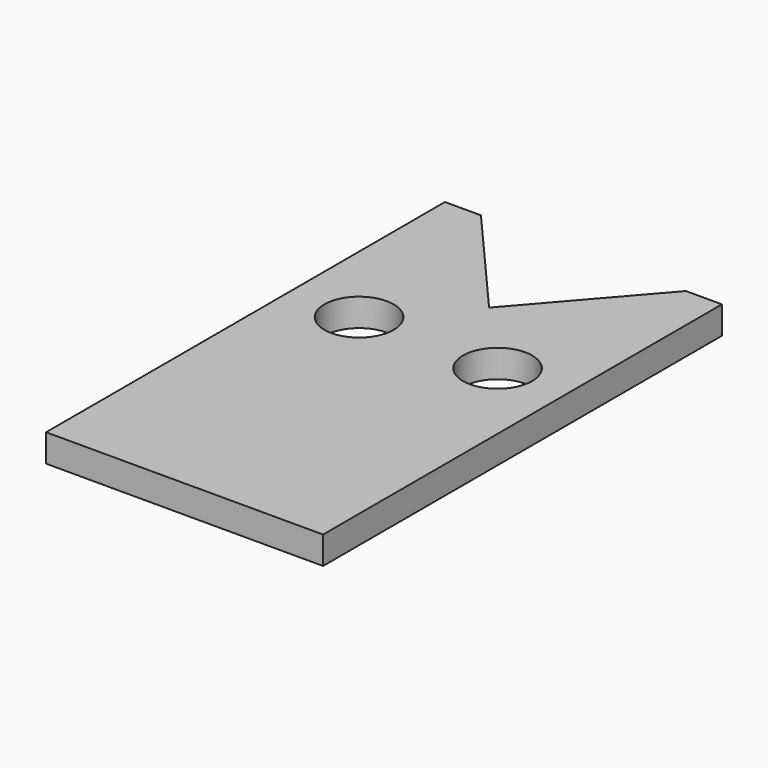
from build123d import *

# Parameters (mm, degrees)
F0_R     = 15.875
F1_DEPTH = 12.7
F2_DEPTH = 25.4


with BuildPart() as f1:
    # F0 (on Top) → F1 (new body)
    with BuildSketch(Plane.XY):
        Polygon((-63.5, 114.3), (-63.5, -114.3), (63.5, -114.3), (63.5, 114.3), (46.993235, 114.3), (0, 60.240467), (-46.993235, 114.3), align=None)
        with Locations((-31.75, 25.4)):
            Circle(F0_R, mode=Mode.SUBTRACT)
        with Locations((31.75, 25.4)):
            Circle(F0_R, mode=Mode.SUBTRACT)
        Polygon((46.993235, 114.3), (-46.993235, 114.3), (0, 60.240467), align=None)
    extrude(amount=F1_DEPTH)

    # F0 (on Top) → F2 (cut)
    with BuildSketch(Plane.XY):
        Polygon((46.993235, 114.3), (-46.993235, 114.3), (0, 60.240467), align=None)
    extrude(amount=F2_DEPTH, mode=Mode.SUBTRACT)


solid = f1.part
